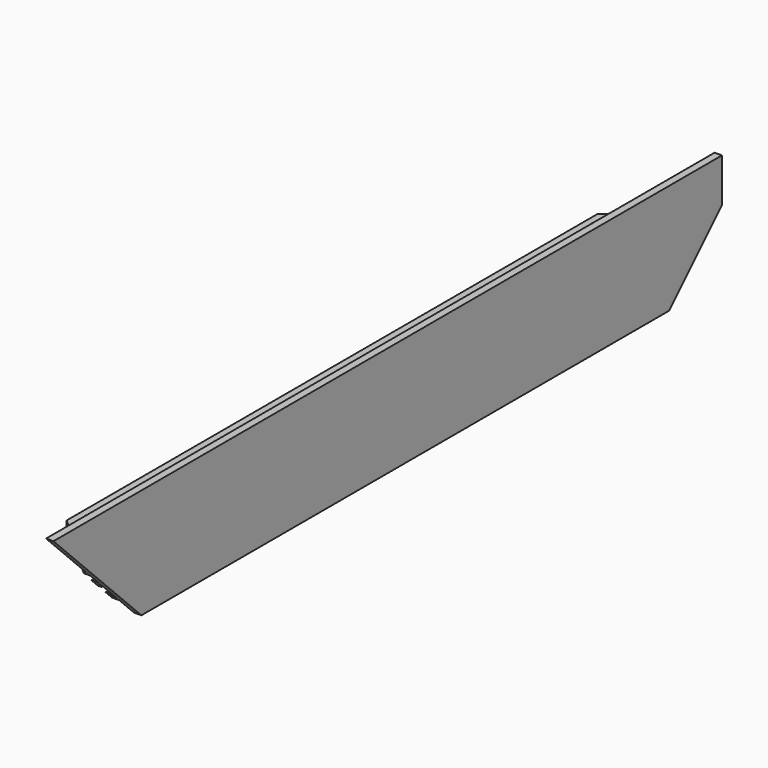
from build123d import *

# Parameters (mm, degrees)
F1_DEPTH = 304.8
F3_DEPTH = 25.4
F5_DEPTH = 25.4
F7_DEPTH = 25.4
F9_DEPTH = 25.4


with BuildPart() as f1:
    # F0 (on Front) → F1 (new body)
    with BuildSketch(Plane.XZ):
        Polygon((-2.54, 0), (0, 0), (0, 38.1), (-2.54, 38.1), (-2.54, 20.955), (-25.4, 20.955), (-25.4, 19.05), (-2.54, 19.05), (-2.54, 15.24), (-5.08, 15.24), (-5.08, 12.446), (-3.81, 12.446), (-3.81, 13.97), (-2.54, 13.97), (-2.54, 7.62), (-3.81, 7.62), (-3.81, 9.144), (-5.08, 9.144), (-5.08, 6.35), (-2.54, 6.35), align=None)
    extrude(amount=F1_DEPTH)

    # F2 (on face) → F3 (cut)
    with BuildSketch(Plane.YZ):
        Polygon((-266.7, 0), (-304.8, 38.1), (-304.8, 0), align=None)
        Polygon((0, 0), (0, 38.1), (-38.1, 0), align=None)
    extrude(amount=-F3_DEPTH, mode=Mode.SUBTRACT)

    # F4 (on face) → F5 (cut)
    with BuildSketch(Plane.XY.offset(20.955)):
        Polygon((-25.4, -37.465), (-2.54, -17.145), (-25.4, -17.145), align=None)
        Polygon((-25.4, -287.655), (-2.54, -287.655), (-25.4, -267.335), align=None)
    extrude(amount=-F5_DEPTH, mode=Mode.SUBTRACT)

    # F6 (on face) → F7 (cut)
    with BuildSketch(Plane.XY.offset(20.955)):
        with BuildLine():
            Line((-13.97, -39.794183), (-20.32, -39.794183))
            ThreePointArc((-20.32, -39.794183), (-23.1775, -42.651683), (-20.32, -45.509183))
            Line((-20.32, -45.509183), (-13.97, -45.509183))
            ThreePointArc((-13.97, -45.509183), (-11.1125, -42.651683), (-13.97, -39.794183))
        make_face()
        with BuildLine():
            Line((-20.32, -265.005817), (-13.97, -265.005817))
            ThreePointArc((-13.97, -265.005817), (-11.1125, -262.148317), (-13.97, -259.290817))
            Line((-13.97, -259.290817), (-20.32, -259.290817))
            ThreePointArc((-20.32, -259.290817), (-23.1775, -262.148317), (-20.32, -265.005817))
        make_face()
    extrude(amount=-F7_DEPTH, mode=Mode.SUBTRACT)

    # F8 (on face) → F9 (cut)
    with BuildSketch(Plane.YZ):
        Polygon((-15.24, 22.86), (0, 38.1), (-15.24, 38.1), align=None)
    extrude(amount=-F9_DEPTH, mode=Mode.SUBTRACT)


solid = f1.part
